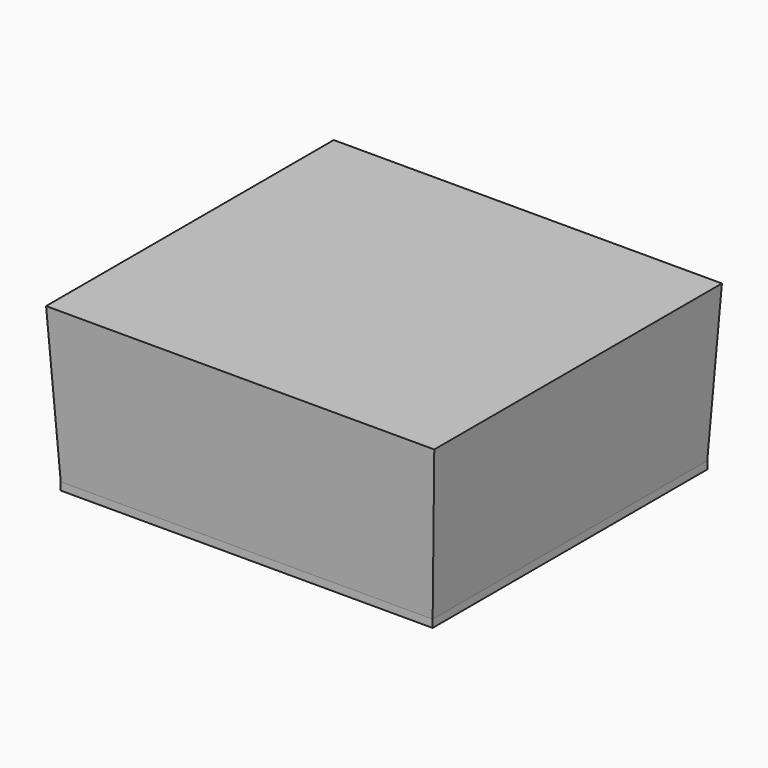
from build123d import *

# Parameters (mm, degrees)
F0_W          = 1216.3070216775
F0_H          = 1122.6118505001
F1_DEPTH      = 508
F1_TAPER      = -3
F1_DEPTH_BACK = 25.4


with BuildPart() as f1:
    # F0 (on Top) → F1 (new body, two sides)
    with BuildSketch(Plane.XY) as f1_sk:
        with Locations((498.6356012523, 374.5622783899)):
            Rectangle(F0_W, F0_H)
    extrude(amount=F1_DEPTH, taper=F1_TAPER)
    extrude(f1_sk.sketch, amount=-F1_DEPTH_BACK)


solid = f1.part
